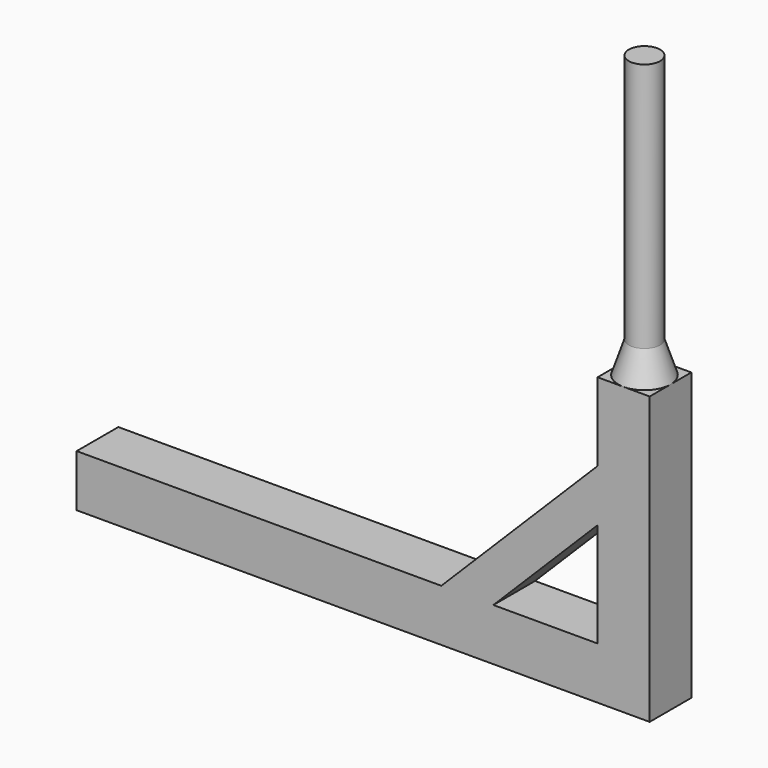
from build123d import *

# Parameters (mm, degrees)
F0_W      = 110
F0_H      = 10
F1_DEPTH  = 10
F2_W      = 10
F2_H      = 10
F3_DEPTH  = 45
F4_R      = 3
F5_DEPTH  = 54
F12_DEPTH = 10


with BuildPart() as f1:
    # F0 (on Top) → F1 (new body)
    with BuildSketch(Plane.XY):
        Rectangle(F0_W, F0_H)
    extrude(amount=F1_DEPTH)

    # F2 (on face) → F3 (join)
    with BuildSketch(Plane.XY.offset(10)):
        with Locations((50, 0)):
            Rectangle(F2_W, F2_H)
    extrude(amount=F3_DEPTH)

    # F4 (on face) → F5 (join)
    with BuildSketch(Plane.XY.offset(55)):
        with Locations((50, 0)):
            Circle(F4_R)
    extrude(amount=F5_DEPTH)

    # F7 (on mid) → F9 (revolve)
    with BuildSketch(Plane(origin=(50, 0, 0), x_dir=(0, -1, 0), z_dir=(-1, 0, 0))):
        Polygon((0, 70), (0, 55), (5, 55), align=None)
    revolve(axis=Axis((50, 0, 50.9786196053), (0, 0, 1)))

    # F11 (on offset) → F12 (join, through all)
    with BuildSketch(Plane(origin=(0, 5, 0), x_dir=(-1, 0, 0), z_dir=(0, 1, 0))):
        Polygon((-25, 10), (-15, 10), (-45, 40), (-45, 30), align=None)
    extrude(amount=-F12_DEPTH)


solid = f1.part
